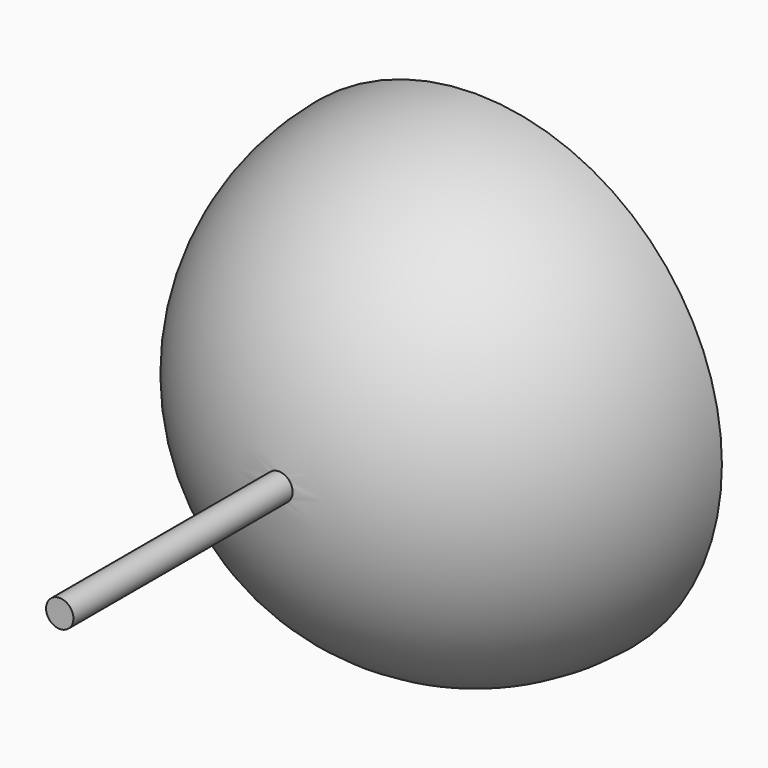
from build123d import *

# Parameters (mm, degrees)
F2_R          = 1.27
F3_DEPTH      = 48.26
F3_DEPTH_BACK = 48.26
F4_R          = 26.181924
F5_DEPTH      = 48.261


with BuildPart() as f1:
    # F0 (on Front) → F1 (revolve)
    with BuildSketch(Plane.XZ):
        with BuildLine():
            Line((0, 22.86), (0, -22.86))
            ThreePointArc((0, -22.86), (22.86, 0), (0, 22.86))
        make_face()
    revolve(axis=Axis((0, 0, 0), (0, 0, -1)))

    # F2 (on Front) → F3 (join, two sides)
    with BuildSketch(Plane.XZ) as f3_sk:
        Circle(F2_R)
    extrude(amount=F3_DEPTH)
    extrude(f3_sk.sketch, amount=-F3_DEPTH_BACK)

    # F4 (on Front) → F5 (cut, through all)
    with BuildSketch(Plane.XZ):
        Circle(F4_R)
    extrude(amount=-F5_DEPTH, mode=Mode.SUBTRACT)


solid = f1.part
